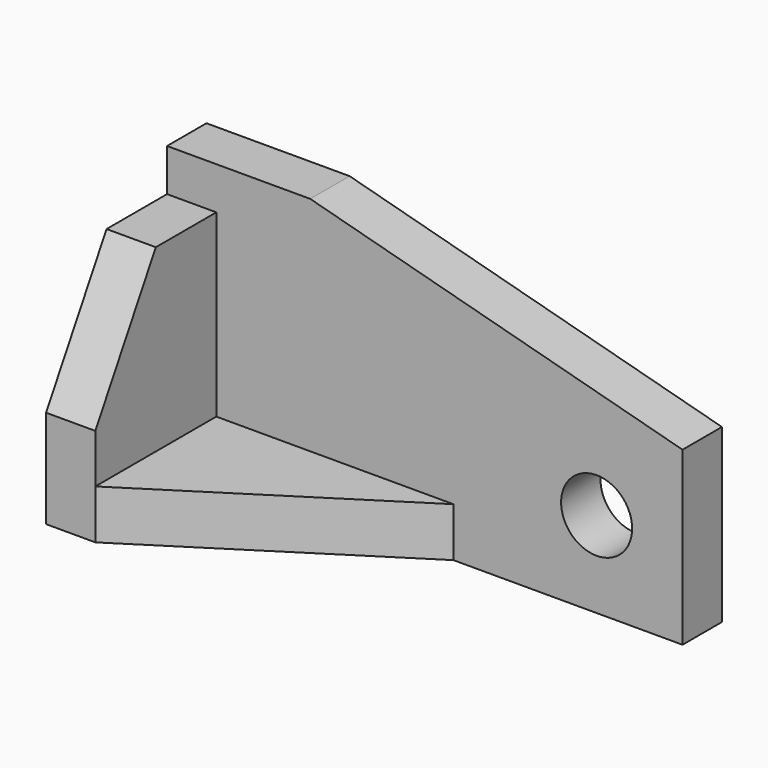
from build123d import *

# Parameters (mm, degrees)
F1_DEPTH = 60.198
F3_DEPTH = 49.276
F5_DEPTH = 10.922
F6_R     = 7.874
F7_DEPTH = 10.922


with BuildPart() as f1:
    # F0 (on Top) → F1 (new body)
    with BuildSketch(Plane.XY):
        Polygon((58.854155, 21.552062), (-55.445845, 21.552062), (-55.445845, -22.897938), (-44.523845, -22.897938), (8.054155, 10.630062), (58.854155, 10.630062), align=None)
    extrude(amount=F1_DEPTH)

    # F2 (on face) → F3 (cut)
    with BuildSketch(Plane.XY.offset(60.198)):
        Polygon((-44.523845, 10.630062), (-44.523845, -22.897938), (8.054155, 10.630062), align=None)
    extrude(amount=-F3_DEPTH, mode=Mode.SUBTRACT)

    # F4 (on face) → F5 (cut)
    with BuildSketch(Plane.YZ.offset(-44.523845)):
        Polygon((-22.897938, 60.198), (-22.897938, 21.7639), (-6.133938, 50.8), (10.630062, 50.8), (10.630062, 60.198), align=None)
    extrude(amount=-F5_DEPTH, mode=Mode.SUBTRACT)

    # F6 (on face) → F7 (cut)
    with BuildSketch(Plane.XZ.offset(-10.630062)):
        Polygon((58.854155, 60.198), (-23.695845, 60.198), (58.854155, 38.078794), align=None)
        with Locations((39.804155, 19.05)):
            Circle(F6_R)
    extrude(amount=-F7_DEPTH, mode=Mode.SUBTRACT)


solid = f1.part
